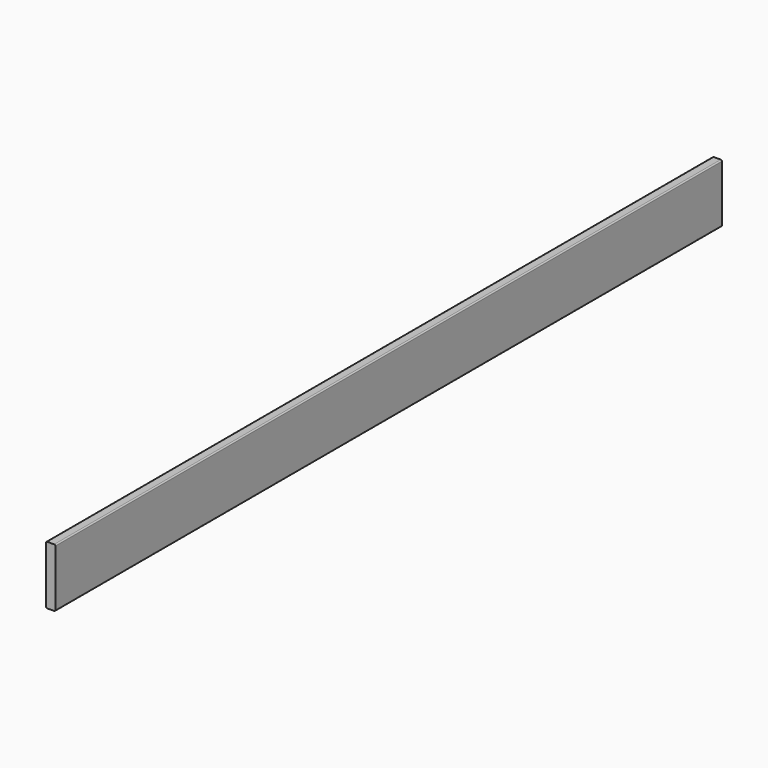
from build123d import *

# Parameters (mm, degrees)
F1_DEPTH = 1714.5


with BuildPart() as f1:
    # F0 (on Front) → F1 (new body, symmetric)
    with BuildSketch(Plane.XZ):
        with BuildLine():
            Line((14.224, 120.65), (-14.224, 120.65))
            ThreePointArc((-14.224, 120.65), (-17.636497, 119.236497), (-19.05, 115.824))
            Line((-19.05, 115.824), (-19.05, -115.824))
            ThreePointArc((-19.05, -115.824), (-17.636497, -119.236497), (-14.224, -120.65))
            Line((-14.224, -120.65), (14.224, -120.65))
            ThreePointArc((14.224, -120.65), (17.636497, -119.236497), (19.05, -115.824))
            Line((19.05, -115.824), (19.05, 115.824))
            ThreePointArc((19.05, 115.824), (17.636497, 119.236497), (14.224, 120.65))
        make_face()
    extrude(amount=F1_DEPTH, both=True)


solid = f1.part
